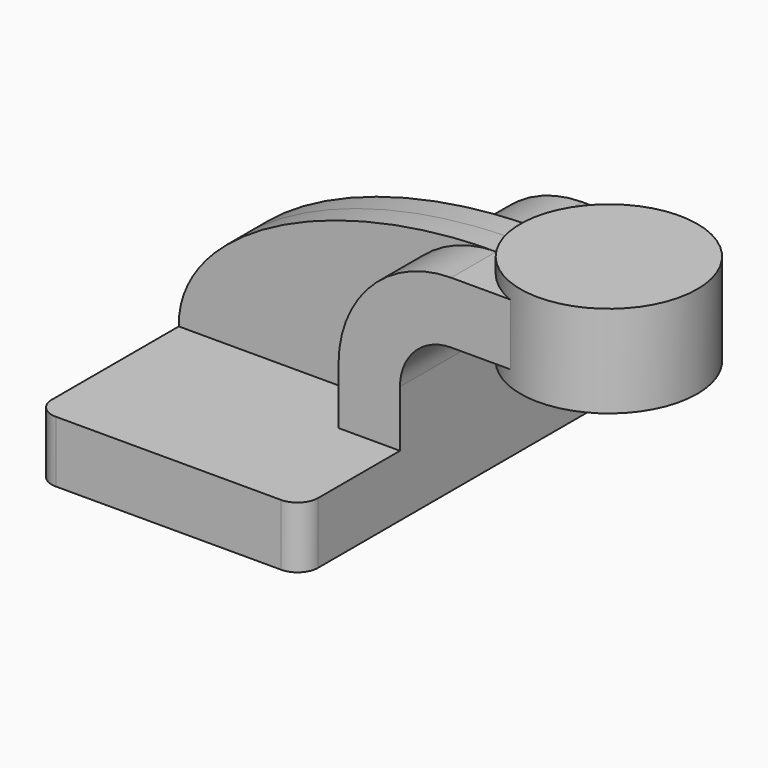
from build123d import *

# Parameters (mm, degrees)
F1_DEPTH = 63.5
F0_W     = 23.3879331585
F0_H     = 19.05
F2_DEPTH = 25.4
F3_DEPTH = 7.9375
F5_R     = 6.35


with BuildPart() as f1:
    # F0 (on Front) → F1 (new body, symmetric)
    with BuildSketch(Plane.XZ):
        Polygon((22.225, 9.525), (-41.275, 9.525), (-41.275, -9.525), (41.275, -9.525), (41.275, 9.525), align=None)
    extrude(amount=F1_DEPTH, both=True)

    # F0 (on Front) → F2 (join, symmetric)
    with BuildSketch(Plane.XZ):
        with BuildLine():
            Line((22.225, 27.0002), (22.225, 9.525))
            Line((22.225, 9.525), (41.275, 9.525))
            Line((41.275, 9.525), (41.275, 27.0002))
            ThreePointArc((41.275, 27.0002), (45.9246798487, 38.2255201513), (57.15, 42.8752))
            Line((57.15, 42.8752), (62.3370668415, 42.8752))
            Line((62.3370668415, 42.8752), (62.3370668415, 61.9252))
            Line((62.3370668415, 61.9252), (57.15, 61.9252))
            ThreePointArc((57.15, 61.9252), (32.4542956671, 51.6959043329), (22.225, 27.0002))
        make_face()
        with Locations((74.0310334207, 52.4002)):
            Rectangle(F0_W, F0_H)
    extrude(amount=F2_DEPTH, both=True)

    # F0 (on Front) → F3 (join, symmetric)
    with BuildSketch(Plane.XZ):
        with BuildLine():
            add(Edge.make_bspline(
                [(-41.275, 9.525), (-41.7356142866, 37.7689963041), (5.1350374706, 61.9642660022), (57.15, 61.9252)],
                knots=[0, 0, 0, 0, 111.5045361635, 111.5045361635, 111.5045361635, 111.5045361635], degree=3))
            Line((-41.275, 9.525), (22.225, 9.525))
            Line((22.225, 9.525), (22.225, 27.0002))
            ThreePointArc((22.225, 27.0002), (32.4542956671, 51.6959043329), (57.15, 61.9252))
        make_face()
    extrude(amount=F3_DEPTH, both=True)

    # F5
    f5_edges = [f1.edges().sort_by_distance(p)[0] for p in [
        (41.275, -63.5, 0),
        (41.275, 63.5, 0),
        (-41.275, 63.5, 0),
        (-41.275, -63.5, 0),
    ]]
    fillet(f5_edges, radius=F5_R)


with BuildPart() as f4:
    # F0 (on Front) → F4 (revolve)
    with BuildSketch(Plane.XZ):
        Polygon((85.725, 66.675), (85.725, 61.9252), (85.725, 42.8752), (85.725, 38.1), (113.1370668415, 38.1), (113.1370668415, 66.675), align=None)
    revolve(axis=Axis((85.725, 0, 52.3875), (0, 0, 1)))


solid = Compound([f1.part, f4.part])
